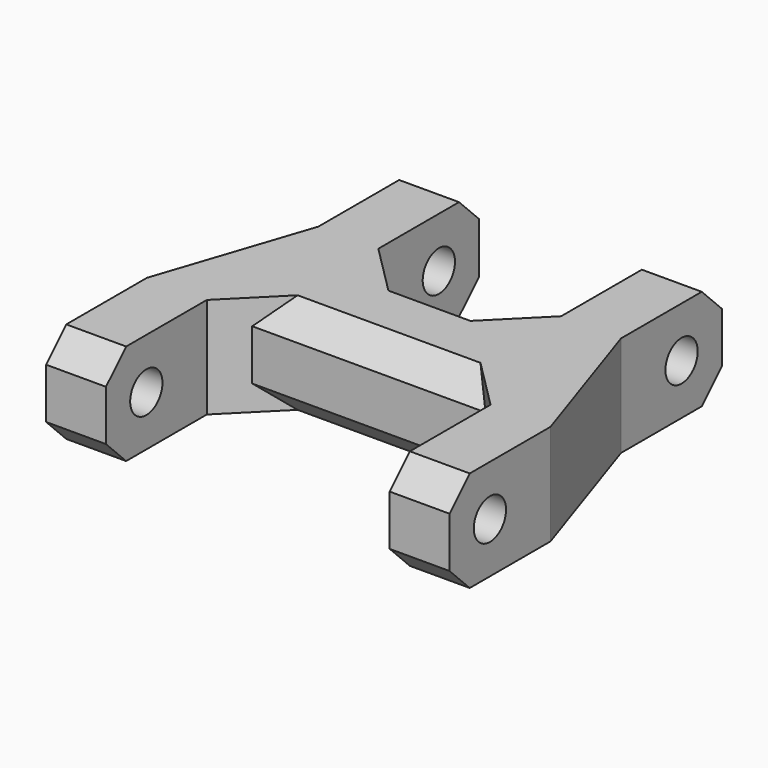
from build123d import *

# Parameters (mm, degrees)
F1_DEPTH = 8
F2_W     = 14.5
F2_H     = 12
F2_W_2   = 22.5
F3_DEPTH = 8
F4_R     = 1.6
F5_DEPTH = 32
F6_R     = 1.6
F7_DEPTH = 24
F8_SIZE  = 2
F9_SIZE  = 2


with BuildPart() as f1:
    # F0 (on Top) → F1 (new body)
    with BuildSketch(Plane.XY):
        Polygon((12, 22), (-12, 22), (-12, 12), (-16, 0), (-16, -10), (16, -10), (16, 0), (12, 12), align=None)
    extrude(amount=F1_DEPTH)

    # F2 (on face) → F3 (cut, through all)
    with BuildSketch(Plane.XY.offset(8)):
        with Locations((0, 16)):
            Rectangle(F2_W, F2_H)
        with Locations((0, -4)):
            Rectangle(F2_W_2, F2_H)
    extrude(amount=-F3_DEPTH, mode=Mode.SUBTRACT)

    # F4 (on face) → F5 (cut, through all)
    with BuildSketch(Plane.YZ.offset(16)):
        with Locations((-6, 4)):
            Circle(F4_R)
    extrude(amount=-F5_DEPTH, mode=Mode.SUBTRACT)

    # F6 (on face) → F7 (cut, through all)
    with BuildSketch(Plane.YZ.offset(12)):
        with Locations((18, 4)):
            Circle(F6_R)
    extrude(amount=-F7_DEPTH, mode=Mode.SUBTRACT)

    # F8
    f8_edges = [f1.edges().sort_by_distance(p)[0] for p in [
        (-11.25, 2, 4),
        (11.25, 2, 4),
        (-7.25, 10, 4),
        (7.25, 10, 4),
    ]]
    chamfer(f8_edges, length=F8_SIZE)

    # F9
    f9_edges = [f1.edges().sort_by_distance(p)[0] for p in [
        (-13.625, -10, 8),
        (-13.625, -10, 0),
        (0, 2, 8),
        (0, 2, 0),
        (13.625, -10, 8),
        (13.625, -10, 0),
        (9.625, 22, 8),
        (0, 10, 8),
        (0, 10, 0),
        (-9.625, 22, 8),
        (-9.625, 22, 0),
        (9.625, 22, 0),
    ]]
    chamfer(f9_edges, length=F9_SIZE)


solid = f1.part
